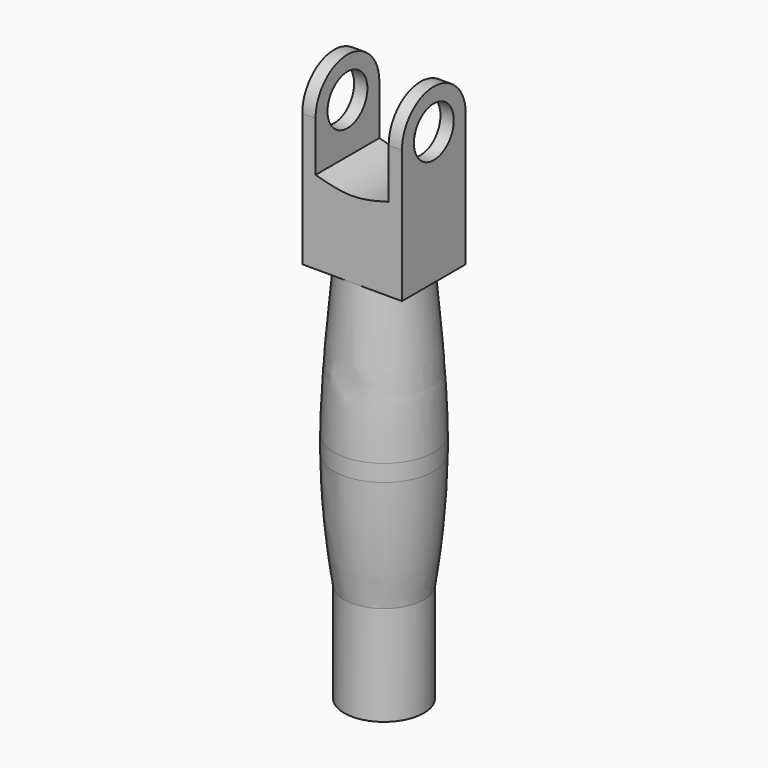
from build123d import *

# Parameters (mm, degrees)
F0_R     = 12
F1_DEPTH = 15
F2_W     = 12
F2_H     = 85
F5_DEPTH = 15
F6_W     = 22
F6_H     = 2
F6_H_2   = 15
F7_DEPTH = 25.4


with BuildPart() as f1:
    # F0 (on Top) → F1 (new body, symmetric)
    with BuildSketch(Plane.XY):
        Circle(F0_R)
    extrude(amount=F1_DEPTH, both=True)

    # F2 (on Right) → F3 (revolve)
    with BuildSketch(Plane.YZ):
        with Locations((6, 57.5)):
            Rectangle(F2_W, F2_H)
        with BuildLine():
            Line((12, 100), (12, 15))
            add(Edge.make_bspline(
                [(15, 50), (14.8483760761, 36.7983569986), (13.4529237629, 24.5626545335), (12, 15)],
                knots=[0.5442355016, 0.5442355016, 0.5442355016, 0.5442355016, 1, 1, 1, 1], degree=3))
            Line((15, 50), (15, 55.0494137852))
            add(Edge.make_bspline(
                [(12, 100), (13.4204155957, 84.714924594), (14.8440376845, 69.3918255439), (15, 55.0494137852)],
                knots=[0, 0, 0, 0, 0.4866410928, 0.4866410928, 0.4866410928, 0.4866410928], degree=3))
        make_face()
        with BuildLine():
            Line((15, 55.0494137852), (15, 50))
            add(Edge.make_bspline(
                [(15, 55.0494137852), (15.0184582796, 53.3519765173), (15.019160532, 51.6682756719), (15, 50)],
                knots=[0.4866410928, 0.4866410928, 0.4866410928, 0.4866410928, 0.5442355016, 0.5442355016, 0.5442355016, 0.5442355016], degree=3))
        make_face()
    revolve(axis=Axis((0, 0, 50), (0, 0, -1)))

    # F4 (on Right) → F5 (join, symmetric)
    with BuildSketch(Plane.YZ):
        with BuildLine():
            Line((-12, 100), (12, 100))
            Line((12, 100), (12, 140))
            ThreePointArc((12, 140), (0, 128), (-12, 140))
            Line((-12, 140), (-12, 100))
        make_face()
        with BuildLine():
            ThreePointArc((-12, 140), (0, 128), (12, 140))
            Line((12, 140), (7.5, 140))
            ThreePointArc((7.5, 140), (0, 132.5), (-7.5, 140))
            Line((-7.5, 140), (-12, 140))
        make_face()
        with BuildLine():
            Line((7.5, 140), (12, 140))
            ThreePointArc((12, 140), (0, 152), (-12, 140))
            Line((-12, 140), (-7.5, 140))
            ThreePointArc((-7.5, 140), (0, 147.5), (7.5, 140))
        make_face()
    extrude(amount=F5_DEPTH, both=True)

    # F6 (on face) → F7 (cut)
    with BuildSketch(Plane(origin=(0, 12, 0), x_dir=(-1, 0, 0), z_dir=(0, 1, 0))):
        with Locations((0, 156)):
            Rectangle(F6_W, F6_H)
        with BuildLine():
            add(Edge.make_bspline(
                [(0, 123), (3.6666666667, 123), (7.3333333333, 124), (11, 125)],
                knots=[0.5, 0.5, 0.5, 0.5, 1, 1, 1, 1], degree=3))
            Line((11, 125), (-11, 125))
            add(Edge.make_bspline(
                [(-11, 125), (-7.3333333333, 124), (-3.6666666667, 123), (0, 123)],
                knots=[0, 0, 0, 0, 0.5, 0.5, 0.5, 0.5], degree=3))
        make_face()
        with Locations((0, 147.5)):
            Rectangle(F6_W, F6_H_2)
        with Locations((0, 132.5)):
            Rectangle(F6_W, F6_H_2)
    extrude(amount=-F7_DEPTH, mode=Mode.SUBTRACT)


solid = f1.part
